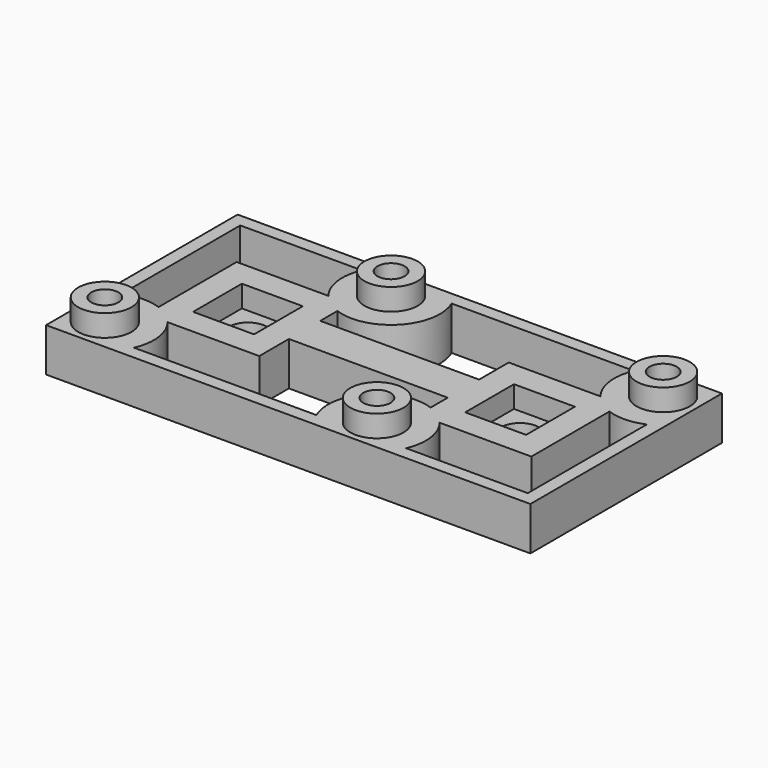
from build123d import *

# Parameters (mm, degrees)
SKETCH_W        = 44.5
SKETCH_H        = 22
SKETCH_R        = 1.75
SKETCH_R_2      = 1.25
PAD_DEPTH       = 4
SKETCH001_W     = 5.6
SKETCH001_H     = 5.6
POCKET_DEPTH    = 2
POCKET001_DEPTH = 2
SKETCH003_R     = 2.45
SKETCH003_R_2   = 1.25
PAD001_DEPTH    = 2
POCKET002_DEPTH = 4.001


with BuildPart() as part:
    # Sketch → Pad (new body)
    with BuildSketch(Plane.XY):
        Rectangle(SKETCH_W, SKETCH_H)
        with Locations((-12.5, 0)):
            Circle(SKETCH_R, mode=Mode.SUBTRACT)
        with Locations((12.5, 0)):
            Circle(SKETCH_R, mode=Mode.SUBTRACT)
        with Locations((-19.25, -8)):
            Circle(SKETCH_R_2, mode=Mode.SUBTRACT)
        with Locations((-5.75, 8)):
            Circle(SKETCH_R_2, mode=Mode.SUBTRACT)
        with Locations((19.25, 8)):
            Circle(SKETCH_R_2, mode=Mode.SUBTRACT)
        with Locations((5.75, -8)):
            Circle(SKETCH_R_2, mode=Mode.SUBTRACT)
    extrude(amount=PAD_DEPTH)

    # Sketch001 (on Face12 of Pad) → Pocket (cut)
    with BuildSketch(Plane.XY.offset(4)):
        with Locations((-12.5, 0)):
            Rectangle(SKETCH001_W, SKETCH001_H)
        with Locations((12.5, 0)):
            Rectangle(SKETCH001_W, SKETCH001_H)
    extrude(amount=-POCKET_DEPTH, mode=Mode.SUBTRACT)

    # Sketch002 → Pocket001 (cut)
    with BuildSketch(Plane(origin=(0, 0, 0), x_dir=(1, 0, 0), z_dir=(0, 0, -1))):
        Polygon((-3.7, -6.816432), (-5.75, -5.632864), (-7.8, -6.816432), (-7.8, -9.183568), (-5.75, -10.367136), (-3.7, -9.183568), align=None)
        Polygon((7.8, 9.183568), (5.75, 10.367136), (3.7, 9.183568), (3.7, 6.816432), (5.75, 5.632864), (7.8, 6.816432), align=None)
        Polygon((21.3, -6.816432), (19.25, -5.632864), (17.2, -6.816432), (17.2, -9.183568), (19.25, -10.367136), (21.3, -9.183568), align=None)
        Polygon((-17.2, 9.183568), (-19.25, 10.367136), (-21.3, 9.183568), (-21.3, 6.816432), (-19.25, 5.632864), (-17.2, 6.816432), align=None)
    extrude(amount=-POCKET001_DEPTH, mode=Mode.SUBTRACT)

    # Sketch003 (on Face5 of Pocket001) → Pad001 (join)
    with BuildSketch(Plane.XY.offset(4)):
        with Locations((-5.75, 8)):
            Circle(SKETCH003_R)
        with Locations((-5.75, 8)):
            Circle(SKETCH003_R_2, mode=Mode.SUBTRACT)
        with Locations((19.25, 8)):
            Circle(SKETCH003_R)
        with Locations((19.25, 8)):
            Circle(SKETCH003_R_2, mode=Mode.SUBTRACT)
        with Locations((5.75, -8)):
            Circle(SKETCH003_R)
        with Locations((5.75, -8)):
            Circle(SKETCH003_R_2, mode=Mode.SUBTRACT)
        with Locations((-19.25, -8)):
            Circle(SKETCH003_R)
        with Locations((-19.25, -8)):
            Circle(SKETCH003_R_2, mode=Mode.SUBTRACT)
    extrude(amount=PAD001_DEPTH)

    # Sketch004 (on Face5 of Pad001) → Pocket002 (cut, through all)
    with BuildSketch(Plane.XY.offset(4)):
        with BuildLine():
            Line((-21.05, 9.8), (-21.05, -3.875682))
            ThreePointArc((-17.7, -3.77537), (-19.384687, -3.502016), (-21.05, -3.875682))
            Line((-17.7, -3.77537), (-17.7, 5.2))
            Line((-17.7, 5.2), (-9.272783, 5.2))
            ThreePointArc((-9.874318, 9.8), (-10.212011, 7.41651), (-9.272783, 5.2))
            Line((-9.874318, 9.8), (-21.05, 9.8))
        make_face()
        with BuildLine():
            Line((17.7, 3.77537), (17.7, -5.2))
            Line((17.7, -5.2), (9.272783, -5.2))
            ThreePointArc((9.874318, -9.8), (10.212011, -7.41651), (9.272783, -5.2))
            Line((9.874318, -9.8), (21.05, -9.8))
            Line((21.05, -9.8), (21.05, 3.875682))
            ThreePointArc((17.7, 3.77537), (19.384687, 3.502016), (21.05, 3.875682))
        make_face()
        with BuildLine():
            Line((-7.3, 3.77537), (-7.3, 1.8))
            Line((-7.3, 1.8), (7.3, 1.8))
            Line((7.3, 1.8), (7.3, 5.2))
            Line((7.3, 5.2), (15.727217, 5.2))
            ThreePointArc((15.125682, 9.8), (14.787989, 7.41651), (15.727217, 5.2))
            Line((15.125682, 9.8), (-1.625682, 9.8))
            ThreePointArc((-7.3, 3.77537), (-2.474207, 4.914683), (-1.625682, 9.8))
        make_face()
        with BuildLine():
            Line((-7.3, -5.2), (-15.727217, -5.2))
            ThreePointArc((-15.125682, -9.8), (-14.787989, -7.41651), (-15.727217, -5.2))
            Line((-15.125682, -9.8), (1.625682, -9.8))
            ThreePointArc((7.3, -3.77537), (2.474207, -4.914683), (1.625682, -9.8))
            Line((7.3, -3.77537), (7.3, -1.8))
            Line((-7.3, -1.8), (7.3, -1.8))
            Line((-7.3, -1.8), (-7.3, -5.2))
        make_face()
    extrude(amount=-POCKET002_DEPTH, mode=Mode.SUBTRACT)


solid = part.part
